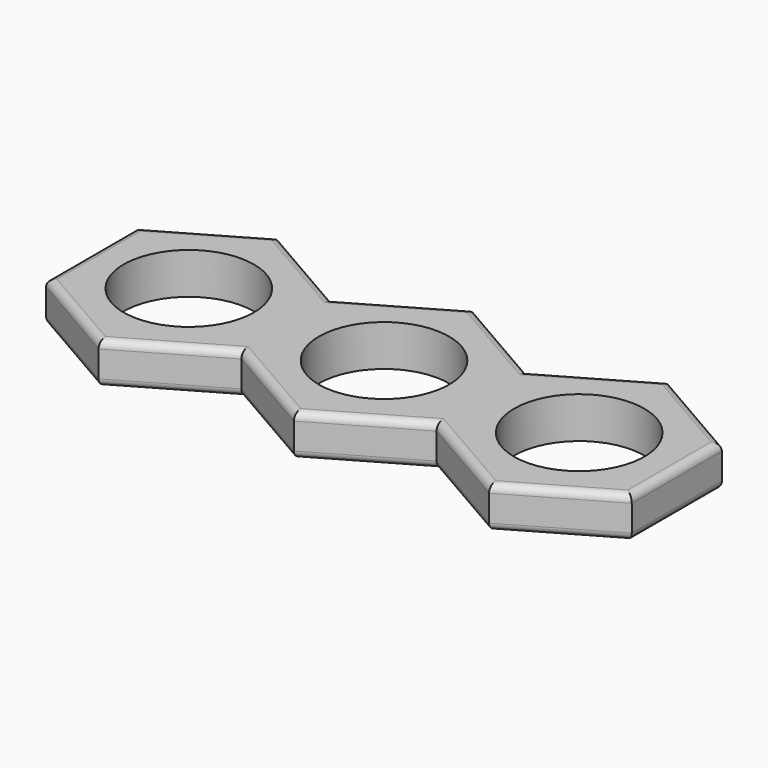
from build123d import *

# Parameters (mm, degrees)
F0_R     = 11.0109
F1_DEPTH = 6.985
F2_R     = 1.27


with BuildPart() as f1:
    # F0 (on Top) → F1 (new body)
    with BuildSketch(Plane.XY):
        with BuildLine():
            Line((16.51, 0), (11.0109, 0))
            ThreePointArc((11.0109, 0), (0, -11.0109), (-11.0109, 0))
            Line((-11.0109, 0), (-16.51, 0))
            Line((-16.51, 0), (-16.51, -9.532053))
            Line((-16.51, -9.532053), (0, -19.064106))
            Line((0, -19.064106), (16.51, -9.532053))
            Line((16.51, -9.532053), (16.51, 0))
        make_face()
        with BuildLine():
            ThreePointArc((-11.0109, 0), (0, 11.0109), (11.0109, 0))
            Line((11.0109, 0), (16.51, 0))
            Line((16.51, 0), (16.51, 9.532053))
            Line((16.51, 9.532053), (0, 19.064106))
            Line((0, 19.064106), (-16.51, 9.532053))
            Line((-16.51, 9.532053), (-16.51, 0))
            Line((-16.51, 0), (-11.0109, 0))
        make_face()
        with BuildLine():
            ThreePointArc((44.0309, 0), (33.02, 11.0109), (22.0091, 0))
            ThreePointArc((22.0091, 0), (33.02, -11.0109), (44.0309, 0))
        make_face()
        Polygon((16.51, 9.532053), (16.51, 0), (16.51, -9.532053), (33.02, -19.064106), (49.53, -9.532053), (49.53, 9.532053), (33.02, 19.064106), align=None)
        with BuildLine():
            ThreePointArc((44.0309, 0), (33.02, -11.0109), (22.0091, 0))
            ThreePointArc((22.0091, 0), (33.02, 11.0109), (44.0309, 0))
        make_face(mode=Mode.SUBTRACT)
        with Locations((-33.02, 0)):
            Circle(F0_R)
        Polygon((-16.51, -9.532053), (-16.51, 0), (-16.51, 9.532053), (-33.02, 19.064106), (-49.53, 9.532053), (-49.53, -9.532053), (-33.02, -19.064106), align=None)
        with Locations((-33.02, 0)):
            Circle(F0_R, mode=Mode.SUBTRACT)
    extrude(amount=F1_DEPTH)

    # F2
    f2_edges = [f1.edges().sort_by_distance(p)[0] for p in [
        (-41.275, 14.298079, 6.985),
        (-49.53, 0, 6.985),
        (-24.765, -14.298079, 6.985),
        (-8.255, -14.298079, 6.985),
        (8.255, -14.298079, 6.985),
        (24.765, -14.298079, 6.985),
        (41.275, -14.298079, 6.985),
        (49.53, 0, 6.985),
        (41.275, 14.298079, 6.985),
        (24.765, 14.298079, 6.985),
        (8.255, 14.298079, 6.985),
        (-8.255, 14.298079, 6.985),
        (-24.765, 14.298079, 6.985),
        (-41.275, -14.298079, 6.985),
        (-49.53, 0, 0),
        (-41.275, -14.298079, 0),
        (-24.765, -14.298079, 0),
        (-8.255, -14.298079, 0),
        (24.765, -14.298079, 0),
        (8.255, -14.298079, 0),
        (41.275, -14.298079, 0),
        (49.53, 0, 0),
        (41.275, 14.298079, 0),
        (24.765, 14.298079, 0),
        (8.255, 14.298079, 0),
        (-8.255, 14.298079, 0),
        (-24.765, 14.298079, 0),
        (-41.275, 14.298079, 0),
    ]]
    fillet(f2_edges, radius=F2_R)


solid = f1.part
